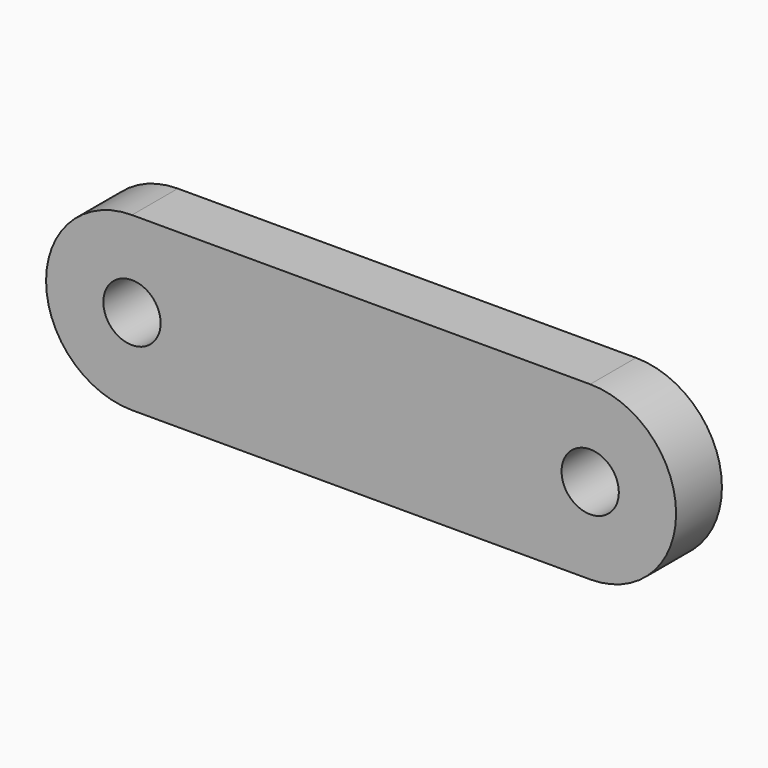
from build123d import *

# Parameters (mm, degrees)
F0_R     = 6.35
F1_DEPTH = 6.35


with BuildPart() as f1:
    # F0 (on Front) → F1 (new body, symmetric)
    with BuildSketch(Plane.XZ):
        with BuildLine():
            Line((101.6, 19.05), (0, 19.05))
            ThreePointArc((0, 19.05), (-19.05, 0), (0, -19.05))
            Line((0, -19.05), (101.6, -19.05))
            ThreePointArc((101.6, -19.05), (120.65, 0), (101.6, 19.05))
        make_face()
        Circle(F0_R, mode=Mode.SUBTRACT)
        with Locations((101.6, 0)):
            Circle(F0_R, mode=Mode.SUBTRACT)
    extrude(amount=F1_DEPTH, both=True)


solid = f1.part
